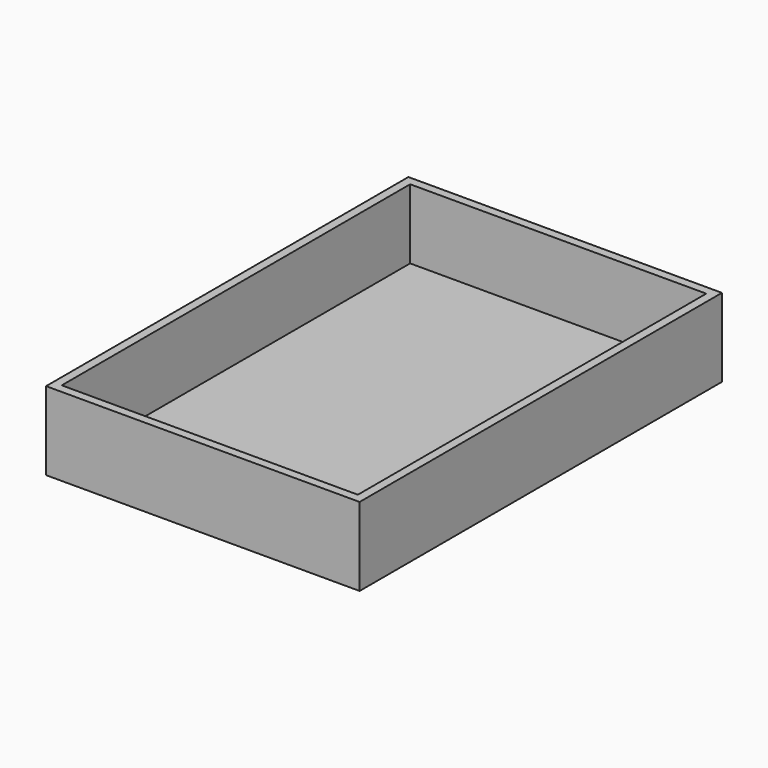
from build123d import *

# Parameters (mm, degrees)
F0_W     = 457.2
F0_H     = 660.4
F1_DEPTH = 12.7
F3_DEPTH = 101.6


with BuildPart() as f1:
    # F0 (on Top) → F1 (new body)
    with BuildSketch(Plane.XY):
        with Locations((-228.6, 330.2)):
            Rectangle(F0_W, F0_H)
    extrude(amount=F1_DEPTH)

    # F2 (on face) → F3 (join)
    with BuildSketch(Plane.XY.offset(12.7)):
        Polygon((0, 12.7), (0, 660.4), (-12.7, 660.4), (-12.7, 647.7), (-12.7, 12.7), align=None)
        Polygon((-12.7, 647.7), (-12.7, 660.4), (-457.2, 660.4), (-457.2, 647.7), (-444.5, 647.7), align=None)
        Polygon((0, 0), (0, 12.7), (-12.7, 12.7), (-444.5, 12.7), (-444.5, 0), align=None)
        Polygon((-444.5, 12.7), (-444.5, 647.7), (-457.2, 647.7), (-457.2, 0), (-444.5, 0), align=None)
    extrude(amount=F3_DEPTH)


solid = f1.part
